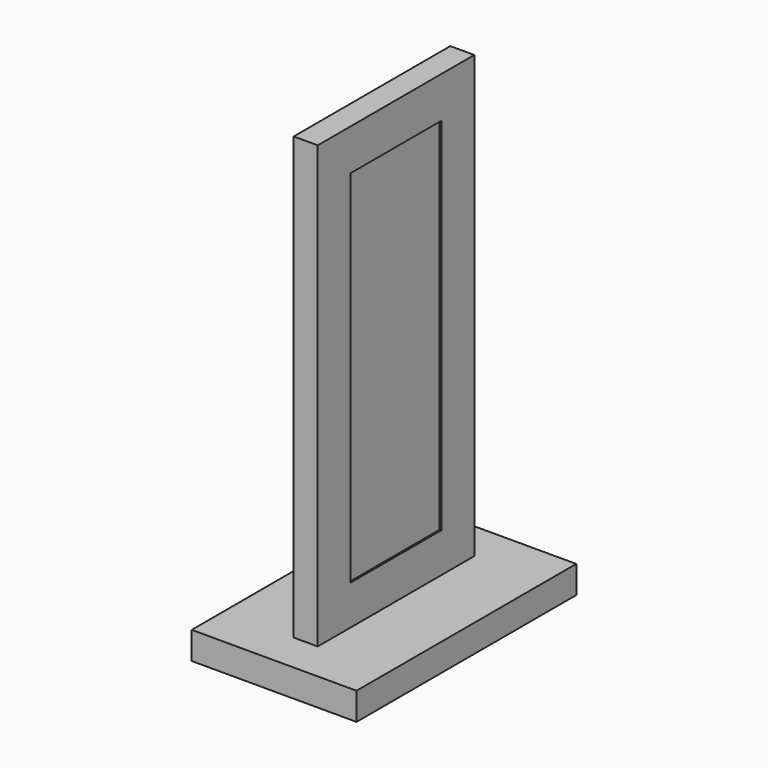
from build123d import *

# Parameters (mm, degrees)
F0_W     = 177.8
F0_H     = 406.4
F0_W_2   = 76.2
F0_H_2   = 304.8
F1_DEPTH = 9.525
F2_DEPTH = 76.2


with BuildPart() as f1:
    # F0 (on Right) → F1 (new body, symmetric)
    with BuildSketch(Plane.YZ):
        with Locations((0, 228.6)):
            Rectangle(F0_W, F0_H)
        with Locations((0, 228.6)):
            Rectangle(F0_W_2, F0_H_2, mode=Mode.SUBTRACT)
        with Locations((0, 228.6)):
            Rectangle(F0_W_2, F0_H_2)
    extrude(amount=F1_DEPTH, both=True)


with BuildPart() as f2:
    # F0 (on Right) → F2 (new body, symmetric)
    with BuildSketch(Plane.YZ):
        Polygon((127, 25.4), (88.9, 25.4), (-88.9, 25.4), (-127, 25.4), (-127, 0), (127, 0), align=None)
    extrude(amount=F2_DEPTH, both=True)


with BuildPart() as f4:
    # F4: sweep along a path in F4_path
    with BuildLine(Plane(origin=(9.525, -88.9, 431.8), x_dir=(0, 0, -1), z_dir=(-1, 0, 0))) as f4_path:
        Line((0, 0), (406.4, 0))
        Line((406.4, 0), (406.4, -177.8))
        Line((406.4, -177.8), (0, -177.8))
        Line((0, -177.8), (0, 0))
    # F3 (on face) → F4 (sweep)
    with BuildSketch(Plane.XY.offset(25.4)):
        Polygon((9.525, -88.9), (-9.525, -88.9), (-9.525, -52.3875), (-11.1125, -52.3875), (-11.1125, -90.4875), (11.1125, -90.4875), (11.1125, -52.3875), (9.525, -52.3875), align=None)
    sweep(path=f4_path.line, transition=Transition.RIGHT)


solid = Compound([f1.part, f2.part, f4.part])
